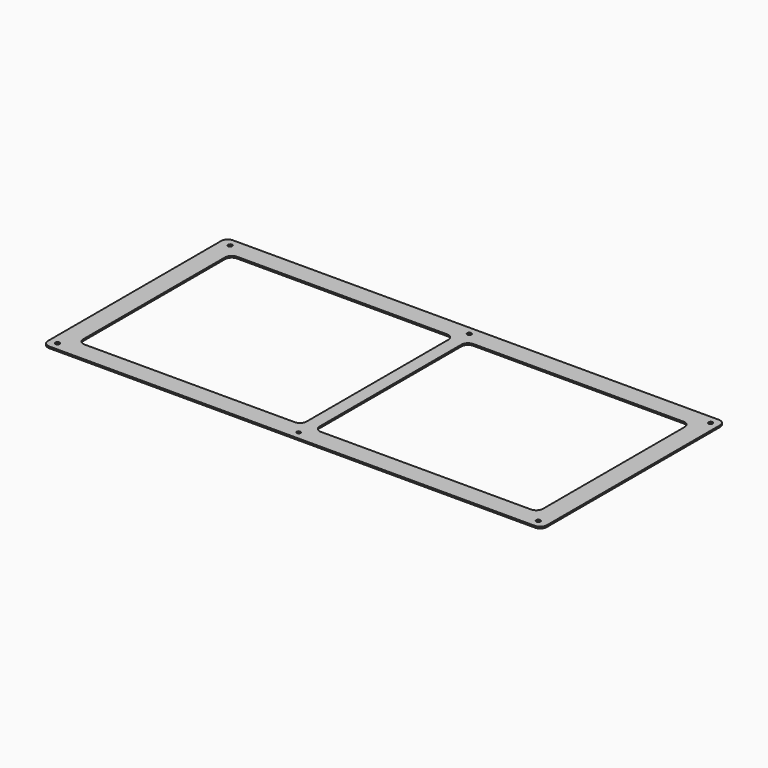
from build123d import *

# Parameters (mm, degrees)
F1_DEPTH = 1.6002
F3_DEPTH = 1.6012
F4_R     = 1.9939
F4_R_2   = 1.770589
F5_DEPTH = 1.6012


with BuildPart() as f1:
    # F0 (on Top) → F1 (new body)
    with BuildSketch(Plane.XY):
        with BuildLine():
            ThreePointArc((-241.3, -104.775), (-239.440128, -109.265128), (-234.95, -111.125))
            Line((-234.95, -111.125), (234.95, -111.125))
            ThreePointArc((234.95, -111.125), (239.440128, -109.265128), (241.3, -104.775))
            Line((241.3, -104.775), (241.3, 104.775))
            ThreePointArc((241.3, 104.775), (239.440128, 109.265128), (234.95, 111.125))
            Line((234.95, 111.125), (-234.95, 111.125))
            ThreePointArc((-234.95, 111.125), (-239.440128, 109.265128), (-241.3, 104.775))
            Line((-241.3, 104.775), (-241.3, -104.775))
        make_face()
    extrude(amount=-F1_DEPTH)

    # F2 (on face) → F3 (cut, through all)
    with BuildSketch(Plane.XY):
        with BuildLine():
            ThreePointArc((-222.25, -85.725), (-220.390128, -90.215128), (-215.9, -92.075))
            Line((-215.9, -92.075), (-12.7, -92.075))
            ThreePointArc((-12.7, -92.075), (-8.209872, -90.215128), (-6.35, -85.725))
            Line((-6.35, -85.725), (-6.35, 85.725))
            ThreePointArc((-6.35, 85.725), (-8.209872, 90.215128), (-12.7, 92.075))
            Line((-12.7, 92.075), (-215.9, 92.075))
            ThreePointArc((-215.9, 92.075), (-220.390128, 90.215128), (-222.25, 85.725))
            Line((-222.25, 85.725), (-222.25, -85.725))
        make_face()
        with BuildLine():
            ThreePointArc((215.9, -92.075), (220.390128, -90.215128), (222.25, -85.725))
            Line((222.25, -85.725), (222.25, 85.725))
            ThreePointArc((222.25, 85.725), (220.390128, 90.215128), (215.9, 92.075))
            Line((215.9, 92.075), (12.7, 92.075))
            ThreePointArc((12.7, 92.075), (8.209872, 90.215128), (6.35, 85.725))
            Line((6.35, 85.725), (6.35, -85.725))
            ThreePointArc((6.35, -85.725), (8.209872, -90.215128), (12.7, -92.075))
            Line((12.7, -92.075), (215.9, -92.075))
        make_face()
    extrude(amount=-F3_DEPTH, mode=Mode.SUBTRACT)

    # F4 (on face) → F5 (cut, through all)
    with BuildSketch(Plane.XY):
        with Locations((-231.3686, 103.1875)):
            Circle(F4_R)
        with Locations((0, -103.1875)):
            Circle(F4_R_2)
        with Locations((0, 103.1875)):
            Circle(F4_R)
        with Locations((233.3625, 103.1875)):
            Circle(F4_R)
        with Locations((231.819779, -103.1875)):
            Circle(F4_R)
        with Locations((-233.3625, -103.1875)):
            Circle(F4_R)
    extrude(amount=-F5_DEPTH, mode=Mode.SUBTRACT)


solid = f1.part
